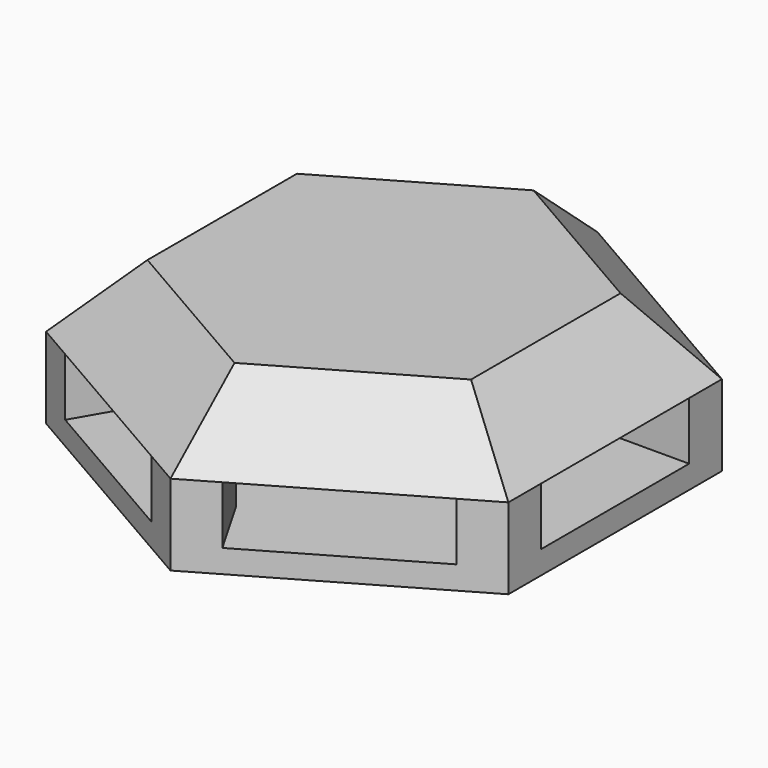
from build123d import *

# Parameters (mm, degrees)
BOX001_W                    = 8
BOX001_H                    = 20
BOX001_DEPTH                = 2.5
ARRAY_COUNT                 = 3
ARRAY_ANGLE                 = 120
PAD_DEPTH                   = 3
PAD_TAPER                   = 45
PAD001_DEPTH                = 3.5
FUSION_PLACEMENT_ANGLE      = 30
BASEFEATURE_PLACEMENT_ANGLE = 30
POCKET_DEPTH                = 3
POCKET_TAPER                = 45
CUT_PLACEMENT_ANGLE         = 30


with BuildPart() as array:
    # Box001 → Box001 (new body)
    with BuildSketch(Plane(origin=(-4, -10, -2.5), x_dir=(1, 0, 0), z_dir=(0, 0, 1))):
        with Locations((4, 10)):
            Rectangle(BOX001_W, BOX001_H)
    extrude(amount=BOX001_DEPTH)

    # Array: Array ×3 about axis
    array_axis = Axis((0, 0, 0), (0, 0, 1))


with BuildPart() as array_1:
    add(array.part)
    for i in range(1, ARRAY_COUNT):
        add(array.part.rotate(array_axis, i * ARRAY_ANGLE / (ARRAY_COUNT - 1)))


with BuildPart() as pad:
    # Sketch → Pad (new body)
    with BuildSketch(Plane.XY):
        Polygon((-11.547005, 0), (-5.773503, -10), (5.773503, -10), (11.547005, 0), (5.773503, 10), (-5.773503, 10), align=None)
    extrude(amount=PAD_DEPTH, taper=PAD_TAPER)


with BuildPart() as cell002:
    # Pad001 base: copy of Pad
    add(pad.part)

    # Sketch → Pad001 (new body)
    with BuildSketch(Plane.XY):
        Polygon((-11.547005, 0), (-5.773503, -10), (5.773503, -10), (11.547005, 0), (5.773503, 10), (-5.773503, 10), align=None)
    extrude(amount=-PAD001_DEPTH)

    # Fusion: union Pad
    add(pad.part)


with BuildPart() as cell002_1:
    # Fusion placement: moved
    add(cell002.part.rotate(Axis((0, 0, 0), (0, 0, 1)), FUSION_PLACEMENT_ANGLE))


with BuildPart() as cell002_2:
    # BaseFeature placement: moved
    add(cell002_1.part.rotate(Axis((0, 0, 0), (0, 0, -1)), BASEFEATURE_PLACEMENT_ANGLE))

    # Sketch002 → Pocket (cut)
    with BuildSketch(Plane(origin=(0, 0, -2), x_dir=(0.866025, 0.5, 0), z_dir=(0, 0, 1))):
        Polygon((0, 8), (-6.928203, 4), (-6.928203, -4), (0, -8), (6.928203, -4), (6.928203, 4), align=None)
    extrude(amount=POCKET_DEPTH, taper=POCKET_TAPER, mode=Mode.SUBTRACT)

    # Cut: cut Array
    add(array_1.part, mode=Mode.SUBTRACT)


with BuildPart() as cell002_3:
    # Cut placement: moved
    add(cell002_2.part.rotate(Axis((0, 0, 0), (0, 0, 1)), CUT_PLACEMENT_ANGLE))


with BuildPart() as cell002_4:
    # Clone001 placement: moved
    add(cell002_3.part.moved(Location((25, 43.30127, 0))))


solid = cell002_4.part
